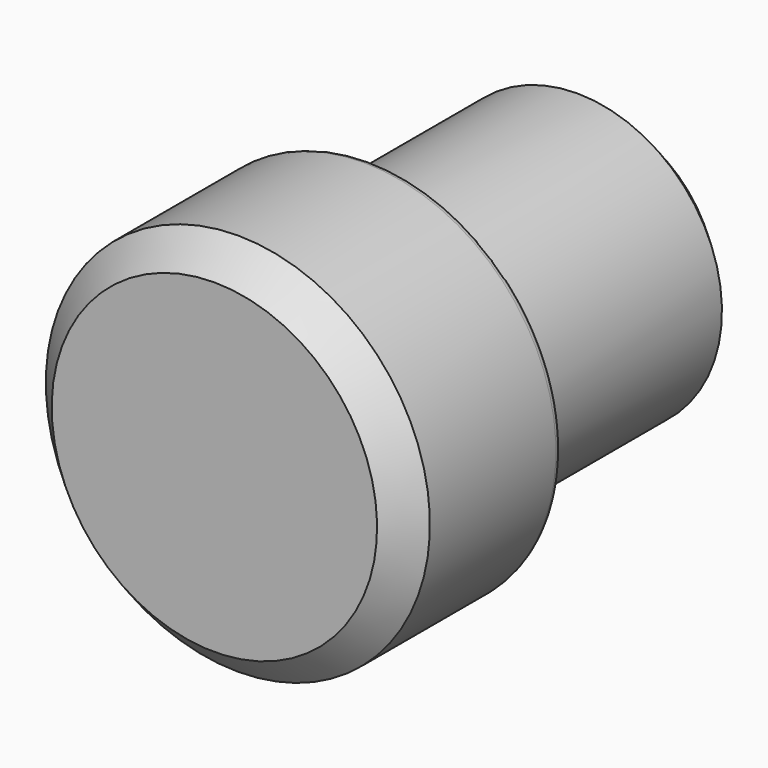
from build123d import *

# Parameters (mm, degrees)
F2_SIZE = 1.524
F3_SIZE = 1.524
F4_R    = 0.381


with BuildPart() as f1:
    # F0 (on Right) → F1 (revolve)
    with BuildSketch(Plane.YZ):
        Polygon((-25.0698, 0), (0, 0), (0, 7.51078), (-13.462, 7.51078), (-13.462, 7.25678), (-14.986, 7.25678), (-14.986, 7.51078), (-14.986, 9.9695), (-25.0698, 9.9695), align=None)
    revolve(axis=Axis((0, -12.5349, 0), (0, 1, 0)))

    # F2
    f2_edges = [f1.edges().sort_by_distance(p)[0] for p in [
        (0, -25.0698, -9.9695),
    ]]
    chamfer(f2_edges, length=F2_SIZE)

    # F3
    f3_edges = [f1.edges().sort_by_distance(p)[0] for p in [
        (0, 0, -7.51078),
    ]]
    chamfer(f3_edges, length=F3_SIZE)

    # F4
    f4_edges = [f1.edges().sort_by_distance(p)[0] for p in [
        (0, -14.986, -9.9695),
    ]]
    fillet(f4_edges, radius=F4_R)


solid = f1.part
